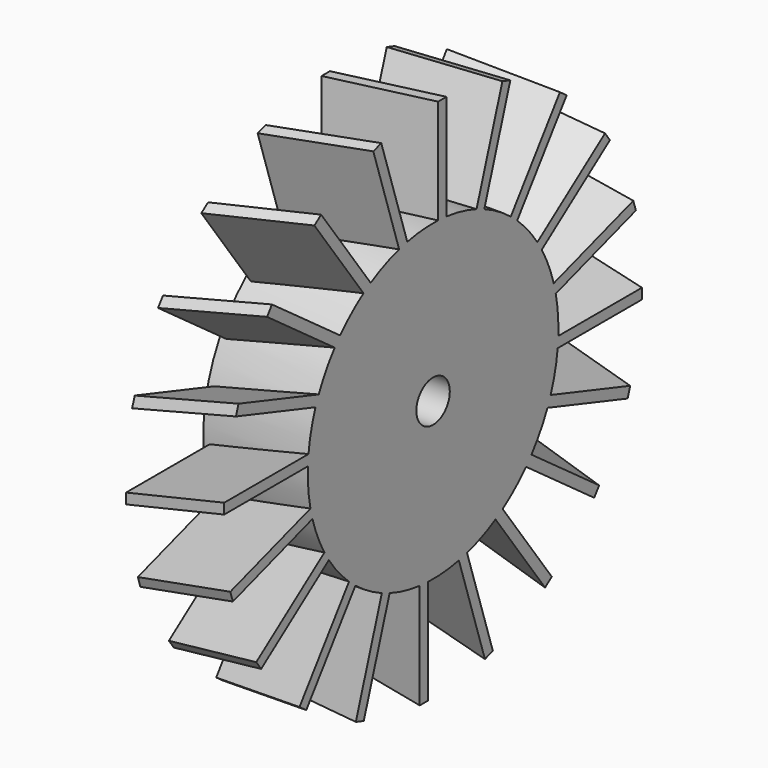
from build123d import *

# Parameters (mm, degrees)
SKETCH_R           = 7.5
PAD_DEPTH          = 5
SKETCH001_R        = 1
POCKET_DEPTH       = 3
PAD001_DEPTH       = 5
POLARPATTERN_COUNT = 20


with BuildPart() as part:
    # Sketch → Pad (new body)
    with BuildSketch(Plane.YZ):
        Circle(SKETCH_R)
    extrude(amount=PAD_DEPTH)

    # Sketch001 (on Face3 of Pad) → Pocket (cut)
    with BuildSketch(Plane.YZ.offset(5)):
        Circle(SKETCH001_R)
    extrude(amount=-POCKET_DEPTH, mode=Mode.SUBTRACT)

    # Sketch002 (on DatumPlane) → Pad001 (join, symmetric)
    with BuildSketch(Plane.ZX.offset(7.5)):
        Polygon((0.8, 0.3), (-0.3, 5), (-0.8, 5), (0.3, 0.3), align=None)
    pad001 = extrude(amount=PAD001_DEPTH, both=True)

    # PolarPattern: Pad001 ×20 about axis
    polarpattern_axis = Axis((0, 0, 0), (1, 0, 0))
    for i in range(1, POLARPATTERN_COUNT):
        add(pad001.rotate(polarpattern_axis, i * 360 / POLARPATTERN_COUNT))


solid = part.part
